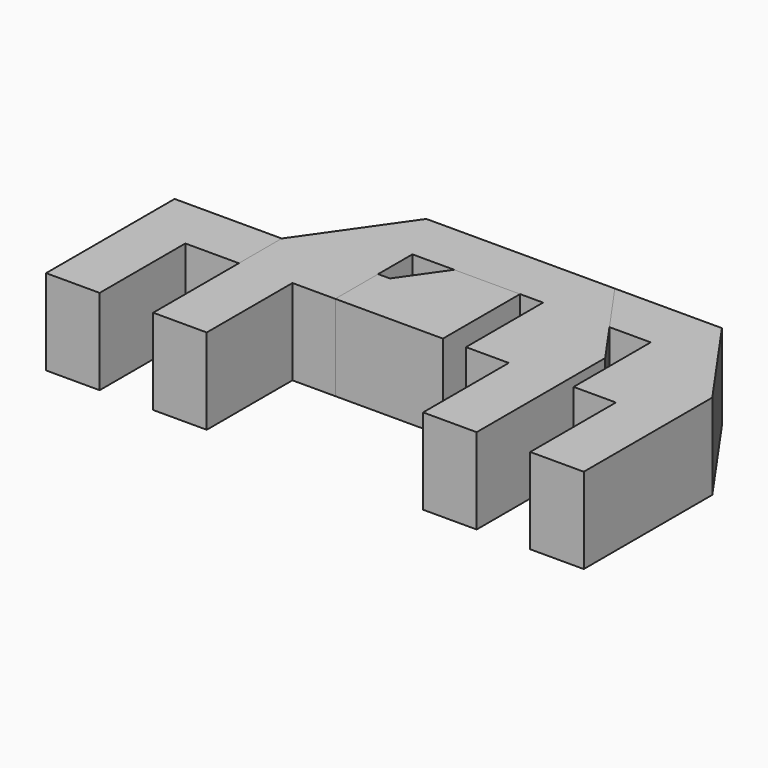
from build123d import *

# Parameters (mm, degrees)
PAD_DEPTH    = 8
PAD001_DEPTH = 8


with BuildPart() as body:
    # Sketch → Pad (new body)
    with BuildSketch(Plane.XY):
        Polygon((3.95, 0), (3.95, 9), (16.15, 9), (16.15, 0), (20.1, 0), (20.1, -10), (25.1, -10), (25.1, 5), (18.798132, 14), (1.301868, 14), (-5, 5), (-25.1, 5), (-25.1, -10), (-20.1, -10), (-20.1, 0), (0, 0), align=None)
    extrude(amount=PAD_DEPTH)


with BuildPart() as body001:
    # Sketch001 → Pad001 (new body)
    with BuildSketch(Plane.XY):
        Polygon((-6.1, 0), (-6.1, 9), (6.1, 9), (6.1, 0), (10.1, 0), (10.1, -10), (15.1, -10), (15.1, 5), (8.798132, 14), (-8.798132, 14), (-15.1, 5), (-15.1, -10), (-10.1, -10), (-10.1, 0), align=None)
    extrude(amount=PAD001_DEPTH)


solid = Compound([body.part, body001.part])
